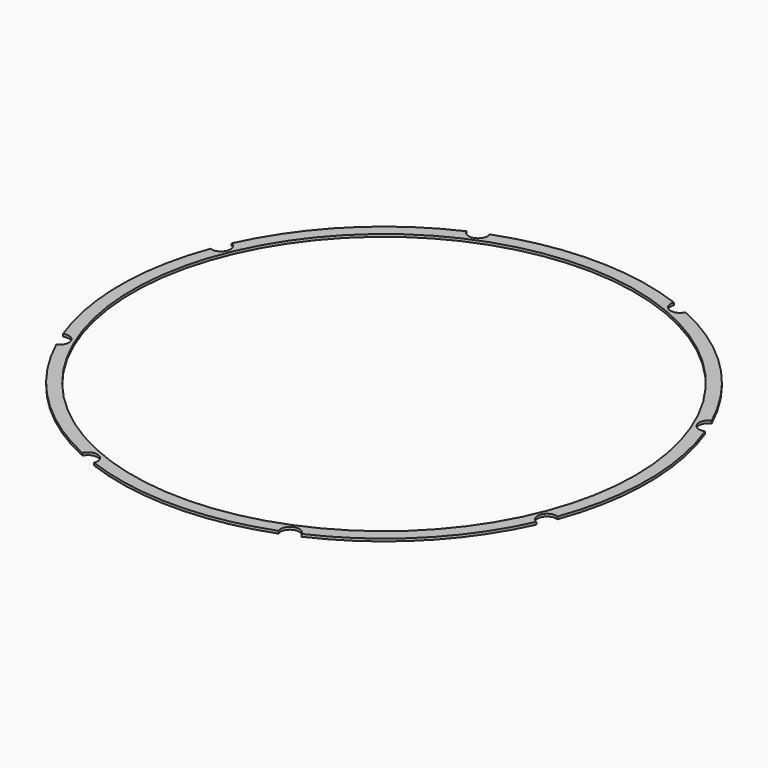
from build123d import *

# Parameters (mm, degrees)
CYLINDER1317_R               = 1.5
CYLINDER1317_DEPTH           = 32
CYLINDER1317_PLACEMENT_ANGLE = 45
CYLINDER1320_R               = 1.5
CYLINDER1320_DEPTH           = 32
CYLINDER1318_R               = 1.5
CYLINDER1318_DEPTH           = 32
CYLINDER1318_PLACEMENT_ANGLE = 135
CYLINDER1316_R               = 1.5
CYLINDER1316_DEPTH           = 32
CYLINDER1314_R               = 1.5
CYLINDER1314_DEPTH           = 32
CYLINDER1314_PLACEMENT_ANGLE = 225
CYLINDER1319_R               = 1.5
CYLINDER1319_DEPTH           = 32
CYLINDER1313_R               = 1.5
CYLINDER1313_DEPTH           = 32
CYLINDER1313_PLACEMENT_ANGLE = 45
CYLINDER1315_R               = 1.5
CYLINDER1315_DEPTH           = 32
COMPOUND934_PLACEMENT_ANGLE  = 22.5
TUBE117_R                    = 42
TUBE117_R_2                  = 40
TUBE117_DEPTH                = 0.4


with BuildPart() as obj1:
    # Cylinder1317 → Cylinder1317 (new body)
    with BuildSketch(Plane.XY):
        Circle(CYLINDER1317_R)
    extrude(amount=CYLINDER1317_DEPTH)


with BuildPart() as obj1_1:
    # Cylinder1317 placement: moved
    add(obj1.part.moved(Location((29.698485, -29.698485, 33.5))).rotate(Axis((29.698485, -29.698485, 33.5), (0, 0, 1)), CYLINDER1317_PLACEMENT_ANGLE))


with BuildPart() as obj2:
    # Cylinder1320 → Cylinder1320 (new body)
    with BuildSketch(Plane(origin=(42, 0, 33.5), x_dir=(0, 1, 0), z_dir=(0, 0, 1))):
        Circle(CYLINDER1320_R)
    extrude(amount=CYLINDER1320_DEPTH)


with BuildPart() as obj3:
    # Cylinder1318 → Cylinder1318 (new body)
    with BuildSketch(Plane.XY):
        Circle(CYLINDER1318_R)
    extrude(amount=CYLINDER1318_DEPTH)


with BuildPart() as obj3_1:
    # Cylinder1318 placement: moved
    add(obj3.part.moved(Location((29.698485, 29.698485, 33.5))).rotate(Axis((29.698485, 29.698485, 33.5), (0, 0, 1)), CYLINDER1318_PLACEMENT_ANGLE))


with BuildPart() as obj4:
    # Cylinder1316 → Cylinder1316 (new body)
    with BuildSketch(Plane(origin=(0, 42, 33.5), x_dir=(-1, 0, 0), z_dir=(0, 0, 1))):
        Circle(CYLINDER1316_R)
    extrude(amount=CYLINDER1316_DEPTH)


with BuildPart() as obj5:
    # Cylinder1314 → Cylinder1314 (new body)
    with BuildSketch(Plane.XY):
        Circle(CYLINDER1314_R)
    extrude(amount=CYLINDER1314_DEPTH)


with BuildPart() as obj5_1:
    # Cylinder1314 placement: moved
    add(obj5.part.moved(Location((-29.698485, 29.698485, 33.5))).rotate(Axis((-29.698485, 29.698485, 33.5), (0, 0, 1)), CYLINDER1314_PLACEMENT_ANGLE))


with BuildPart() as obj6:
    # Cylinder1319 → Cylinder1319 (new body)
    with BuildSketch(Plane(origin=(-42, 0, 33.5), x_dir=(0, -1, 0), z_dir=(0, 0, 1))):
        Circle(CYLINDER1319_R)
    extrude(amount=CYLINDER1319_DEPTH)


with BuildPart() as obj7:
    # Cylinder1313 → Cylinder1313 (new body)
    with BuildSketch(Plane.XY):
        Circle(CYLINDER1313_R)
    extrude(amount=CYLINDER1313_DEPTH)


with BuildPart() as obj7_1:
    # Cylinder1313 placement: moved
    add(obj7.part.moved(Location((-29.698485, -29.698485, 33.5))).rotate(Axis((-29.698485, -29.698485, 33.5), (0, 0, -1)), CYLINDER1313_PLACEMENT_ANGLE))


with BuildPart() as compound934:
    # Cylinder1315 → Cylinder1315 (new body)
    with BuildSketch(Plane(origin=(0, -42, 33.5), x_dir=(1, 0, 0), z_dir=(0, 0, 1))):
        Circle(CYLINDER1315_R)
    extrude(amount=CYLINDER1315_DEPTH)

    # Compound934: union obj1, obj2, obj3, obj4, obj5, obj6, obj7
    add(obj1_1.part)
    add(obj2.part)
    add(obj3_1.part)
    add(obj4.part)
    add(obj5_1.part)
    add(obj6.part)
    add(obj7_1.part)


with BuildPart() as compound934_1:
    # Compound934 placement: moved
    add(compound934.part.rotate(Axis((0, 0, 0), (0, 0, 1)), COMPOUND934_PLACEMENT_ANGLE))


with BuildPart() as cut477:
    # Tube117 → Tube117 (new body)
    with BuildSketch(Plane.XY.offset(38)):
        Circle(TUBE117_R)
        Circle(TUBE117_R_2, mode=Mode.SUBTRACT)
    extrude(amount=TUBE117_DEPTH)

    # Cut477: cut Compound934
    add(compound934_1.part, mode=Mode.SUBTRACT)


with BuildPart() as cut477_1:
    # Cut477 placement: moved
    add(cut477.part.moved(Location((0, 0, 1))))


solid = cut477_1.part
